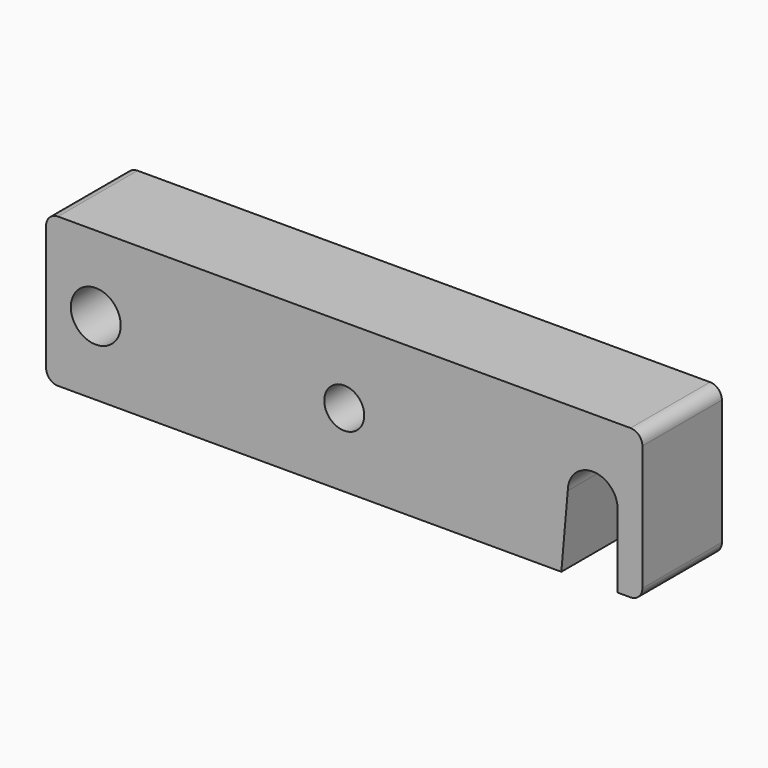
from build123d import *

# Parameters (mm, degrees)
F0_W     = 12.7
F0_H     = 19.05
F1_DEPTH = 76.2
F3_DEPTH = 25.4
F4_D     = 5.1054
F5_R     = 1.524


with BuildPart() as f1:
    # F0 (on Right) → F1 (new body)
    with BuildSketch(Plane.YZ):
        with Locations((6.35, 9.525)):
            Rectangle(F0_W, F0_H)
    extrude(amount=F1_DEPTH)

    # F2 (on face) → F3 (cut)
    with BuildSketch(Plane.XZ):
        with BuildLine():
            Line((6.35, 9.398), (3.1623, 9.398))
            ThreePointArc((3.1623, 9.398), (6.35, 6.2103), (9.5377, 9.398))
            Line((9.5377, 9.398), (6.35, 9.398))
        make_face()
        with BuildLine():
            Line((66.6623, 9.398), (65.8400815402, 0))
            Line((65.8400815402, 0), (73.0377, 0))
            Line((73.0377, 0), (73.0377, 9.398))
            ThreePointArc((73.0377, 9.398), (69.85, 12.5857), (66.6623, 9.398))
        make_face()
        with BuildLine():
            ThreePointArc((9.5377, 9.398), (6.35, 12.5857), (3.1623, 9.398))
            Line((3.1623, 9.398), (6.35, 9.398))
            Line((6.35, 9.398), (9.5377, 9.398))
        make_face()
    extrude(amount=-F3_DEPTH, mode=Mode.SUBTRACT)

    # F4 (through all)
    with Locations(Plane.XZ):
        with Locations((38.1, 9.398)):
            Hole(F4_D / 2)

    # F5
    f5_edges = [f1.edges().sort_by_distance(p)[0] for p in [
        (76.2, 6.35, 19.05),
        (0, 6.35, 19.05),
        (76.2, 6.35, 0),
        (0, 6.35, 0),
    ]]
    fillet(f5_edges, radius=F5_R)


solid = f1.part
